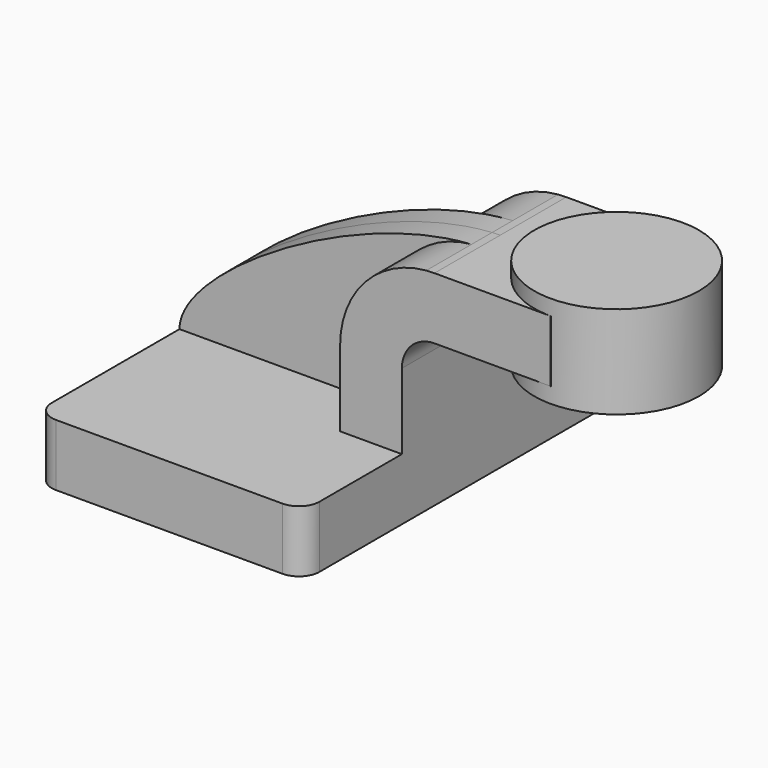
from build123d import *

# Parameters (mm, degrees)
F1_DEPTH = 63.5
F0_W     = 25.4
F0_H     = 19.05
F2_DEPTH = 25.4
F3_DEPTH = 7.9375
F5_R     = 6.35


with BuildPart() as f1:
    # F0 (on Front) → F1 (new body, symmetric)
    with BuildSketch(Plane.XZ):
        Polygon((22.225, 9.525), (-41.275, 9.525), (-41.275, -9.525), (41.275, -9.525), (41.275, 9.525), align=None)
    extrude(amount=F1_DEPTH, both=True)

    # F0 (on Front) → F2 (join, symmetric)
    with BuildSketch(Plane.XZ):
        with BuildLine():
            Line((22.225, 32.832524617), (22.225, 9.525))
            Line((22.225, 9.525), (41.275, 9.525))
            Line((41.275, 9.525), (41.275, 32.832524617))
            ThreePointArc((41.275, 32.832524617), (44.2164315184, 39.9337684816), (51.317675383, 42.8752))
            Line((51.317675383, 42.8752), (61.7728, 42.8752))
            Line((61.7728, 42.8752), (61.7728, 61.9252))
            Line((61.7728, 61.9252), (51.317675383, 61.9252))
            add(Edge.make_bspline(
                [(48.7869792992, 61.8149216585), (49.6392067374, 61.8679555111), (50.483050491, 61.9049011825), (51.317675383, 61.9252)],
                knots=[104.0020273905, 104.0020273905, 104.0020273905, 104.0020273905, 106.3916561325, 106.3916561325, 106.3916561325, 106.3916561325], degree=3))
            ThreePointArc((48.7869792992, 61.8149216585), (29.8699659412, 52.4890634945), (22.225, 32.832524617))
        make_face()
        with Locations((74.4728, 52.4002)):
            Rectangle(F0_W, F0_H)
    extrude(amount=F2_DEPTH, both=True)

    # F0 (on Front) → F3 (join, symmetric)
    with BuildSketch(Plane.XZ):
        with BuildLine():
            add(Edge.make_bspline(
                [(-41.275, 9.525), (-41.275, 26.7246001951), (11.6961208685, 59.5067688946), (48.7869792992, 61.8149216585)],
                knots=[0, 0, 0, 0, 104.0020273905, 104.0020273905, 104.0020273905, 104.0020273905], degree=3))
            Line((-41.275, 9.525), (22.225, 9.525))
            Line((22.225, 9.525), (22.225, 32.832524617))
            ThreePointArc((22.225, 32.832524617), (29.8699659412, 52.4890634945), (48.7869792992, 61.8149216585))
        make_face()
    extrude(amount=F3_DEPTH, both=True)

    # F5
    f5_edges = [f1.edges().sort_by_distance(p)[0] for p in [
        (41.275, 63.5, 0),
        (-41.275, 63.5, 0),
        (-41.275, -63.5, 0),
        (41.275, -63.5, 0),
    ]]
    fillet(f5_edges, radius=F5_R)


with BuildPart() as f4:
    # F0 (on Front) → F4 (revolve)
    with BuildSketch(Plane.XZ):
        Polygon((87.1728, 66.675), (87.1728, 61.9252), (87.1728, 42.8752), (87.1728, 38.1), (112.5728, 38.1), (112.5728, 66.675), align=None)
    revolve(axis=Axis((87.1728, 0, 52.3875), (0, 0, 1)))


solid = Compound([f1.part, f4.part])
